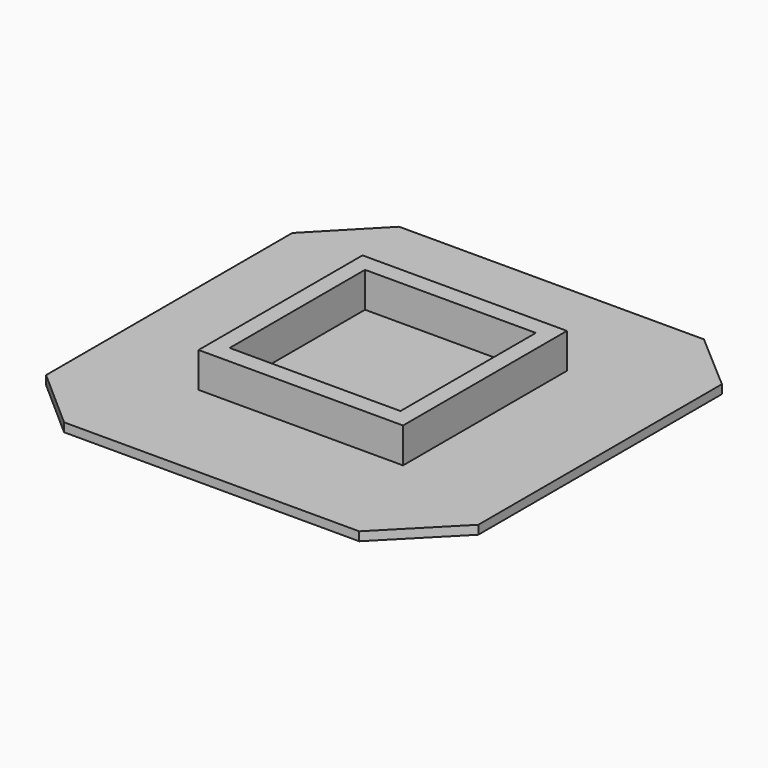
from build123d import *

# Parameters (mm, degrees)
F1_DEPTH = 12.7
F3_W     = 295.542716
F3_H     = 296.202182
F3_W_2   = 246.921896
F3_H_2   = 244.63451
F4_DEPTH = 50.8


with BuildPart() as f1:
    # F0 (on Top) → F1 (new body)
    with BuildSketch(Plane.XY):
        Polygon((304.8, 231.870204), (220.464751, 304.8), (-220.213354, 304.8), (-304.8, 217.583231), (-304.8, 217.559303), (-304.8, -227.374971), (-216.906339, -304.8), (209.789738, -304.8), (304.8, -208.257139), align=None)
        Polygon((-304.8, 217.559303), (-304.8, 217.583231), (-304.983646, 217.393875), align=None)
    extrude(amount=F1_DEPTH)

    # F3 (on face) → F4 (join)
    with BuildSketch(Plane.XY.offset(12.7)):
        Rectangle(F3_W, F3_H)
        Rectangle(F3_W_2, F3_H_2, mode=Mode.SUBTRACT)
    extrude(amount=F4_DEPTH)


solid = f1.part
